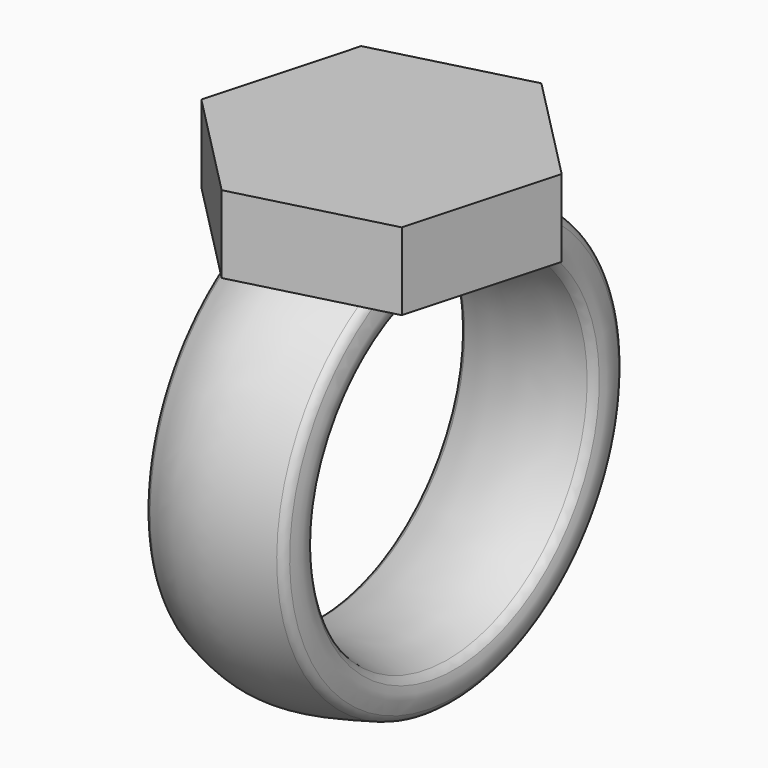
from build123d import *

# Parameters (mm, degrees)
F2_R     = 2
F4_DEPTH = 15


with BuildPart() as f1:
    # F0 (on Front) → F1 (revolve)
    with BuildSketch(Plane.XZ):
        with BuildLine():
            add(Edge.make_bspline(
                [(-12.5707564875, 40.9650541842), (-13.18882913, 39.9805736429), (-13.2825346796, 37.6919479487), (-12.7731149897, 35.6099489705), (-12.1025638655, 34.784913063)],
                knots=[0, 0, 0, 0, 0.5080293636, 1, 1, 1, 1], degree=3))
            add(Edge.make_bspline(
                [(-12.1025638655, 34.784913063), (-8.1474545299, 33.2278324616), (0.922260068, 31.6967242613), (7.1866209619, 32.4329249561), (13.7416701764, 34.1294445097)],
                knots=[0, 0, 0, 0, 0.4856305397, 1, 1, 1, 1], degree=3))
            add(Edge.make_bspline(
                [(13.7416701764, 34.1294445097), (14.1411826201, 35.0207644736), (15.0138487801, 36.9676995001), (14.1889336213, 39.5596928447), (13.7416701764, 40.9650541842)],
                knots=[0, 0, 0, 0, 0.457806733, 1, 1, 1, 1], degree=3))
            add(Edge.make_bspline(
                [(13.7416701764, 40.9650541842), (7.705855709, 42.5176037586), (-2.9162892312, 45.2498624614), (-9.6593155854, 42.2571986128), (-12.5707564875, 40.9650541842)],
                knots=[0, 0, 0, 0, 0.5682293455, 1, 1, 1, 1], degree=3))
        make_face()
    revolve(axis=Axis((15.8163383603, 0, 0), (1, 0, 0)))

    # F2
    f2_edges = [f1.edges().sort_by_distance(p)[0] for p in [
        (13.74167, 0, -40.965054),
        (13.74167, 0, -34.129445),
        (-12.570756, 0, -40.965054),
        (-12.102564, 0, -34.784913),
    ]]
    fillet(f2_edges, radius=F2_R)


with BuildPart() as f4:
    # F3 (on Top) → F4 (new body)
    with BuildSketch(Plane.XY):
        Polygon((28.934864869, 7.5156149472), (7.9587189651, 28.8161355053), (-20.9761459039, 21.300520558), (-28.934864869, -7.5156149472), (-7.9587189651, -28.8161355053), (20.9761459039, -21.300520558), align=None)
    extrude(amount=F4_DEPTH)


with BuildPart() as f4_1:
    # F5: moved
    add(f4.part.moved(Location((0, 0, 36.3))))


solid = Compound([f1.part, f4_1.part])
